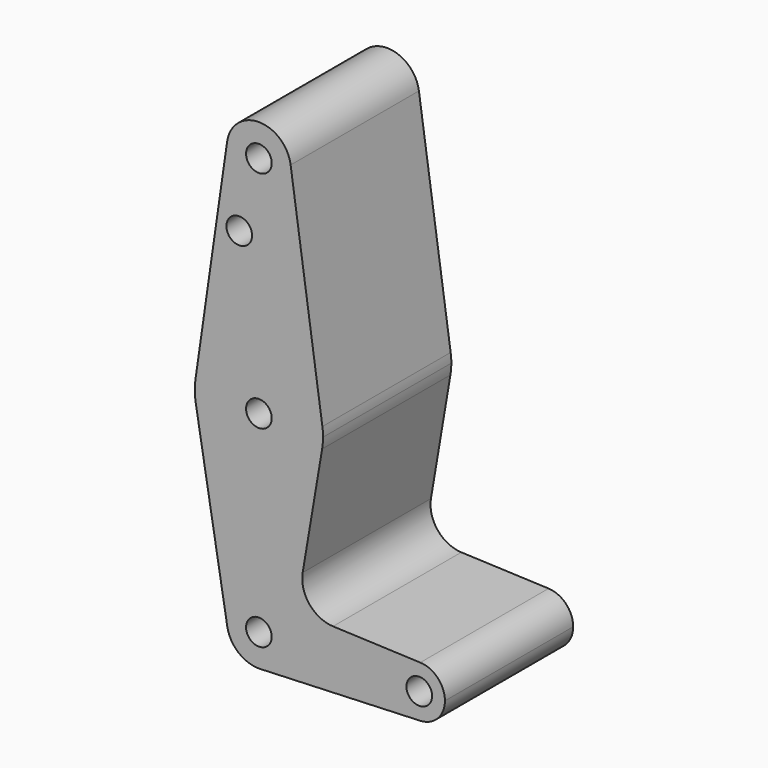
from build123d import *

# Parameters (mm, degrees)
F0_R     = 2
F1_DEPTH = 25


with BuildPart() as f1:
    # F0 (on Front) → F1 (new body)
    with BuildSketch(Plane.XZ):
        with BuildLine():
            ThreePointArc((-3.313569, -3.996799), (-7.473569, 0), (-3.313569, 3.996799))
            Line((-3.313569, 3.996799), (-16.919591, 4.541475))
            ThreePointArc((-16.919591, 4.541475), (-20.602202, 6.387025), (-21.649657, 10.370807))
            Line((-21.649657, 10.370807), (-18.613436, 28.333333))
            ThreePointArc((-18.613436, 28.333333), (-28.473569, 20), (-38.333702, 28.333333))
            Line((-38.333702, 28.333333), (-33.403636, -0.833333))
            ThreePointArc((-33.403636, -0.833333), (-28.8917, 4.982486), (-23.473569, 0))
            ThreePointArc((-23.473569, 0), (-24.868018, -3.464102), (-28.273569, -4.995998))
            Line((-28.273569, -4.995998), (-3.313569, -3.996799))
        make_face()
        with BuildLine():
            ThreePointArc((-33.403636, -0.833333), (-31.624018, -3.882612), (-28.273569, -4.995998))
            ThreePointArc((-28.273569, -4.995998), (-24.868018, -3.464102), (-23.473569, 0))
            ThreePointArc((-23.473569, 0), (-28.8917, 4.982486), (-33.403636, -0.833333))
        make_face()
        with Locations((-28.473569, 0)):
            Circle(F0_R, mode=Mode.SUBTRACT)
        with BuildLine():
            ThreePointArc((-3.313569, -3.996799), (-0.589128, -2.771281), (0.526431, 0))
            ThreePointArc((0.526431, 0), (-0.589128, 2.771281), (-3.313569, 3.996799))
            ThreePointArc((-3.313569, 3.996799), (-7.473569, 0), (-3.313569, -3.996799))
        make_face()
        with Locations((-3.473569, 0)):
            Circle(F0_R, mode=Mode.SUBTRACT)
        with BuildLine():
            ThreePointArc((-38.333702, 28.333333), (-28.473569, 20), (-18.613436, 28.333333))
            ThreePointArc((-18.613436, 28.333333), (-18.508597, 29.163737), (-18.473569, 30))
            ThreePointArc((-18.473569, 30), (-18.499244, 30.716124), (-18.576136, 31.428571))
            ThreePointArc((-18.576136, 31.428571), (-28.473569, 40), (-38.371002, 31.428571))
            ThreePointArc((-38.371002, 31.428571), (-38.472843, 29.8795), (-38.333702, 28.333333))
        make_face()
        with Locations((-28.473569, 30)):
            Circle(F0_R, mode=Mode.SUBTRACT)
        with BuildLine():
            Line((-33.422286, 65.714286), (-38.371002, 31.428571))
            ThreePointArc((-38.371002, 31.428571), (-28.473569, 40), (-18.576136, 31.428571))
            Line((-18.576136, 31.428571), (-23.524852, 65.714286))
            ThreePointArc((-23.524852, 65.714286), (-23.486406, 65.358062), (-23.473569, 65))
            ThreePointArc((-23.473569, 65), (-28.831631, 60.012837), (-33.422286, 65.714286))
        make_face()
        with Locations((-31.536311, 54.071311)):
            Circle(F0_R, mode=Mode.SUBTRACT)
        with BuildLine():
            ThreePointArc((-23.524852, 65.714286), (-28.473569, 70), (-33.422286, 65.714286))
            ThreePointArc((-33.422286, 65.714286), (-28.831631, 60.012837), (-23.473569, 65))
            ThreePointArc((-23.473569, 65), (-23.486406, 65.358062), (-23.524852, 65.714286))
        make_face()
        with Locations((-28.473569, 65)):
            Circle(F0_R, mode=Mode.SUBTRACT)
    extrude(amount=F1_DEPTH)


solid = f1.part
